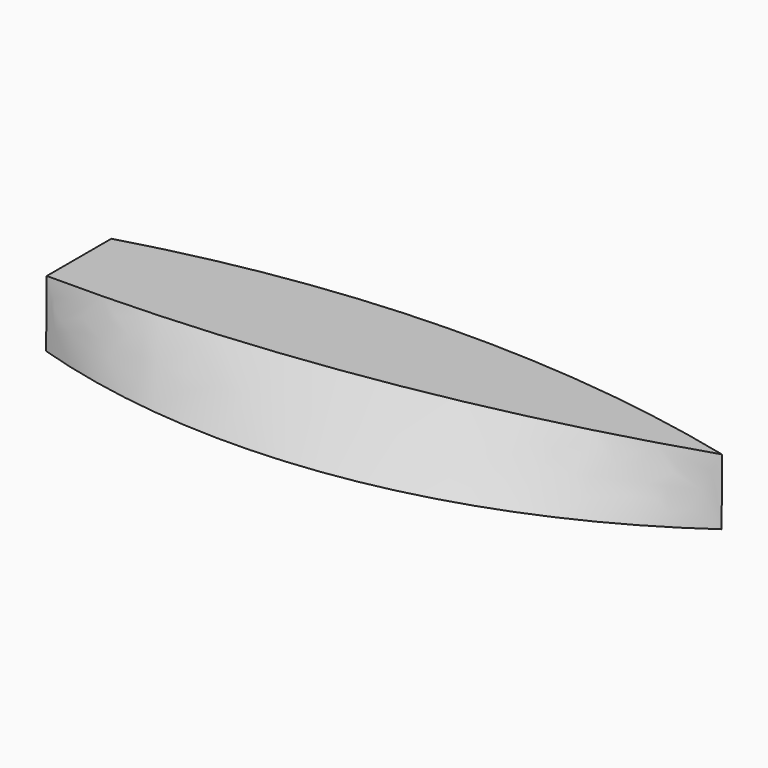
from build123d import *

# Parameters (mm, degrees)
F5_D     = 1.905
F5_DEPTH = 12.7
F5_TIP   = 0.5723197396


with BuildPart() as f3:
    # F0 (on Top) → F3 section 0
    with BuildSketch(Plane.XY):
        with BuildLine():
            ThreePointArc((0, -63.5), (480.1730019381, -99.3591556176), (926.2046953683, 82.0456935114))
            ThreePointArc((926.2046953683, 82.0456935114), (461.9680395869, 129.4221969171), (0, 63.5))
            Line((0, 63.5), (0, -63.5))
        make_face()
    # F2 (on offset) → F3 section 1
    with BuildSketch(Plane.XY.offset(101.6)):
        with BuildLine():
            ThreePointArc((0, -62.2418266971), (468.9863026784, -27.4428819693), (926.2312054634, 82.4944525957))
            ThreePointArc((926.2312054634, 82.4944525957), (461.7832835069, 133.3002700176), (0, 62.2418266971))
            Line((0, 62.2418266971), (0, -62.2418266971))
        make_face()
    loft()

    # F5
    with Locations(Plane(origin=(0, 0, 0), x_dir=(0, 1, 0), z_dir=(-1, 0, 0))):
        with Locations((-2.945644781, -61.9351714849)):
            Hole(F5_D / 2, depth=F5_DEPTH)
            with Locations((0, 0, -(F5_DEPTH + F5_TIP / 2))):  # 118° drill point
                Cone(0, F5_D / 2, F5_TIP, mode=Mode.SUBTRACT)


solid = f3.part
